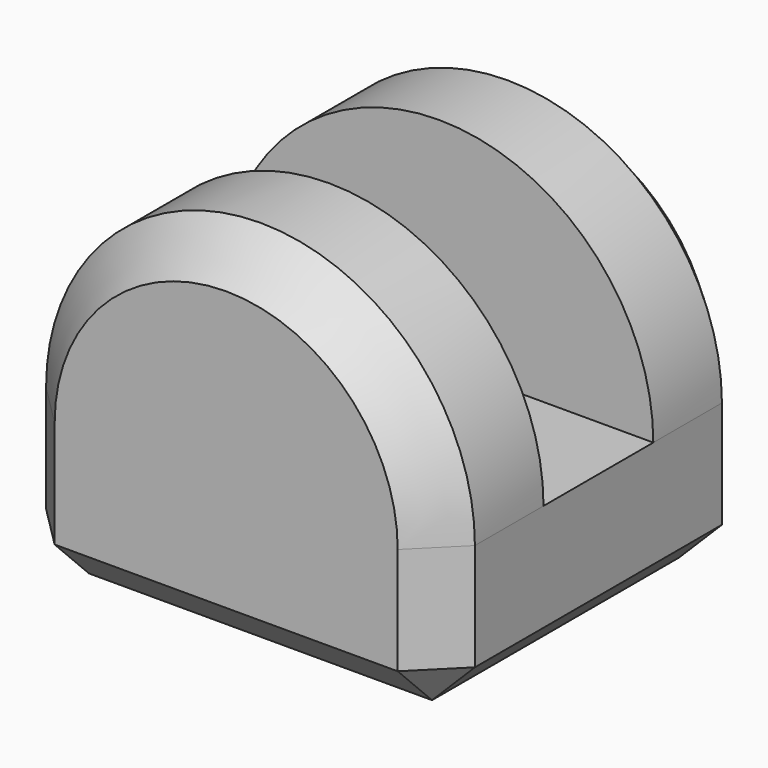
from build123d import *

# Parameters (mm, degrees)
PAD_DEPTH    = 4.6
SKETCH001_W  = 1.6
SKETCH001_H  = 2.5
POCKET_DEPTH = 5.001
CHAMFER_SIZE = 0.5


with BuildPart() as part:
    # Sketch (on XZ_Plane of Origin) → Pad (new body)
    with BuildSketch(Plane.XZ):
        with BuildLine():
            Line((0, 0), (0, 1.75))
            ThreePointArc((5, 1.75), (2.5, 4.25), (0, 1.75))
            Line((5, 1.75), (5, 0))
            Line((5, 0), (0, 0))
        make_face()
    extrude(amount=PAD_DEPTH)

    # Sketch001 (on Face3 of Pad) → Pocket (cut, through all)
    with BuildSketch(Plane.YZ.offset(5)):
        with Locations((-2.3, 3)):
            Rectangle(SKETCH001_W, SKETCH001_H)
    extrude(amount=-POCKET_DEPTH, mode=Mode.SUBTRACT)

    # Chamfer
    chamfer_edges = [part.edges().sort_by_distance(p)[0] for p in [
        (2.5, -4.6, 4.25),
        (2.5, -4.6, 0),
        (2.5, 0, 4.25),
        (5, -2.3, 0),
        (2.5, 0, 0),
        (0, -2.3, 0),
    ]]
    chamfer(chamfer_edges, length=CHAMFER_SIZE)


solid = part.part
